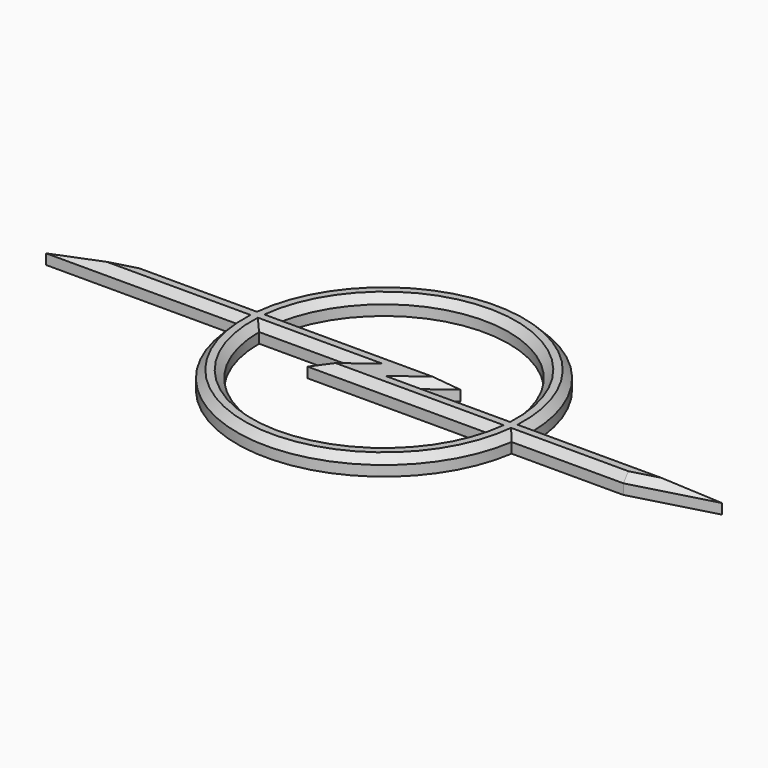
from build123d import *

# Parameters (mm, degrees)
F1_DEPTH = 3.048
F2_SIZE  = 1.27


with BuildPart() as f1:
    # F0 (on Top) → F1 (new body)
    with BuildSketch(Plane.XY):
        with BuildLine():
            Line((-25.112624, 3.81), (-44.45, 3.81))
            Line((-44.45, 3.81), (-58.42, 0))
            Line((-58.42, 0), (-25.4, 0))
            ThreePointArc((-25.4, 0), (-1.910411, -25.328054), (25.112624, -3.81))
            Line((25.112624, -3.81), (44.45, -3.81))
            Line((44.45, -3.81), (58.42, 0))
            Line((58.42, 0), (25.4, 0))
            ThreePointArc((25.4, 0), (1.910411, 25.328054), (-25.112624, 3.81))
        make_face()
        with BuildLine():
            Line((-5.08, 0), (-10.16, -3.81))
            Line((-10.16, -3.81), (21.251165, -3.81))
            ThreePointArc((21.251165, -3.81), (-1.912519, -21.505124), (-21.59, 0))
            Line((-21.59, 0), (-5.08, 0))
        make_face(mode=Mode.SUBTRACT)
        with BuildLine():
            Line((5.08, 0), (10.16, 3.81))
            Line((10.16, 3.81), (-21.251165, 3.81))
            ThreePointArc((-21.251165, 3.81), (1.912519, 21.505124), (21.59, 0))
            Line((21.59, 0), (5.08, 0))
        make_face(mode=Mode.SUBTRACT)
    extrude(amount=F1_DEPTH)

    # F2
    f2_edges = [f1.edges().sort_by_distance(p)[0] for p in [
        (-51.435, 1.905, 3.048),
        (-34.781312, 3.81, 3.048),
        (-41.91, 0, 3.048),
        (-1.910411, -25.328054, 3.048),
        (-1.912519, -21.505124, 3.048),
        (5.545582, -3.81, 3.048),
        (13.335, 0, 3.048),
        (7.62, 1.905, 3.048),
        (-5.545582, 3.81, 3.048),
        (-13.335, 0, 3.048),
        (-7.62, -1.905, 3.048),
        (1.912519, 21.505124, 3.048),
        (1.910411, 25.328054, 3.048),
        (41.91, 0, 3.048),
        (34.781312, -3.81, 3.048),
        (51.435, -1.905, 3.048),
    ]]
    chamfer(f2_edges, length=F2_SIZE)


solid = f1.part
